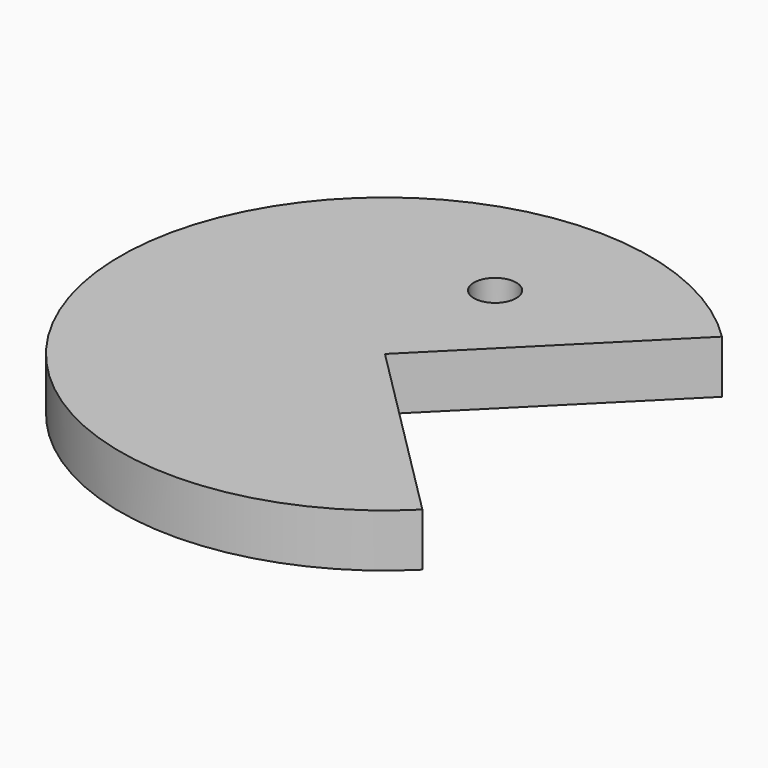
from build123d import *

# Parameters (mm, degrees)
CYLINDER001_R            = 2
CYLINDER001_DEPTH        = 10
CYLINDER_W               = 25
CYLINDER_H               = 5
CYLINDER_ANGLE           = 270
CYLINDER_PLACEMENT_ANGLE = 45


with BuildPart() as obj1:
    # Cylinder001 → Cylinder001 (new body)
    with BuildSketch(Plane(origin=(0, 13, -2), x_dir=(1, 0, 0), z_dir=(0, 0, 1))):
        Circle(CYLINDER001_R)
    extrude(amount=CYLINDER001_DEPTH)


with BuildPart() as obj2:
    # Cylinder → Cylinder (revolve)
    with BuildSketch(Plane.XZ):
        with Locations((12.5, 2.5)):
            Rectangle(CYLINDER_W, CYLINDER_H)
    revolve(axis=Axis((0, 0, 0), (0, 0, 1)), revolution_arc=CYLINDER_ANGLE)


with BuildPart() as obj2_1:
    # Cylinder placement: moved
    add(obj2.part.rotate(Axis((0, 0, 0), (0, 0, 1)), CYLINDER_PLACEMENT_ANGLE))

    # Cut: cut obj1
    add(obj1.part, mode=Mode.SUBTRACT)


solid = obj2_1.part
